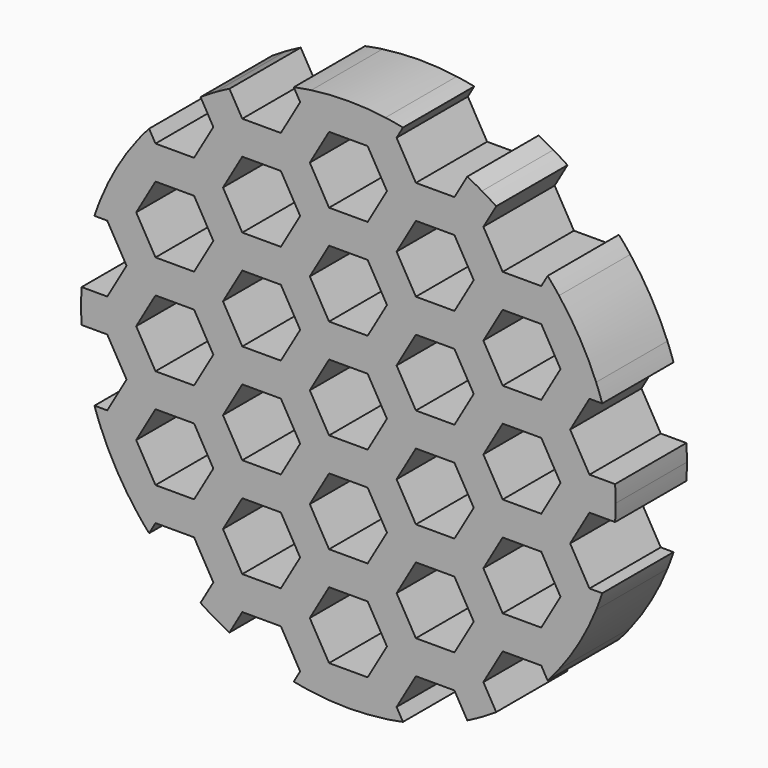
from build123d import *

# Parameters (mm, degrees)
F1_DEPTH = 12.7
F2_DEPTH = 12.701


with BuildPart() as f1:
    # F0 (on Front) → F1 (new body)
    with BuildSketch(Plane.XZ):
        Polygon((4.124446, 7.14375), (8.248892, 0), (16.497784, 0), (20.62223, 7.14375), (16.497784, 14.2875), (8.248892, 14.2875), align=None)
        Polygon((15.122969, 11.90625), (17.872599, 7.14375), (15.122969, 2.38125), (9.623707, 2.38125), (6.874077, 7.14375), (9.623707, 11.90625), align=None, mode=Mode.SUBTRACT)
        Polygon((-4.124446, -21.43125), (-8.248892, -14.2875), (-16.497784, -14.2875), (-20.62223, -21.43125), (-16.497784, -28.575), (-8.248892, -28.575), align=None)
        Polygon((-15.122969, -16.66875), (-9.623707, -16.66875), (-6.874077, -21.43125), (-9.623707, -26.19375), (-15.122969, -26.19375), (-17.872599, -21.43125), align=None, mode=Mode.SUBTRACT)
        Polygon((30.245937, 0), (27.496307, 4.7625), (21.997045, 4.7625), (19.247415, 0), (21.997045, -4.7625), (27.496307, -4.7625), align=None)
        with BuildLine():
            Line((-34.370383, -2.38125), (-38.025513, -2.38125))
            ThreePointArc((-38.025513, -2.38125), (-37.413049, -7.202342), (-36.191867, -11.90625))
            Line((-36.191867, -11.90625), (-34.370383, -11.90625))
            Line((-34.370383, -11.90625), (-31.620753, -7.14375))
            Line((-31.620753, -7.14375), (-34.370383, -2.38125))
        make_face()
        with BuildLine():
            Line((-19.247415, 28.575), (-21.07498, 31.740435))
            ThreePointArc((-21.07498, 31.740435), (-24.943936, 28.79948), (-28.407048, 25.389951))
            Line((-28.407048, 25.389951), (-27.496307, 23.8125))
            Line((-27.496307, 23.8125), (-21.997045, 23.8125))
            Line((-21.997045, 23.8125), (-19.247415, 28.575))
        make_face()
        with BuildLine():
            Line((-4.124446, 35.71875), (4.124446, 35.71875))
            Line((4.124446, 35.71875), (5.286485, 37.73146))
            ThreePointArc((5.286485, 37.73146), (0, 38.1), (-5.286485, 37.73146))
            Line((-5.286485, 37.73146), (-4.124446, 35.71875))
        make_face()
        Polygon((-19.247415, -14.2875), (-21.997045, -9.525), (-27.496307, -9.525), (-30.245937, -14.2875), (-27.496307, -19.05), (-21.997045, -19.05), align=None)
        Polygon((5.499261, -14.2875), (2.749631, -9.525), (-2.749631, -9.525), (-5.499261, -14.2875), (-2.749631, -19.05), (2.749631, -19.05), align=None)
        Polygon((-16.497784, 0), (-8.248892, 0), (-4.124446, 7.14375), (-8.248892, 14.2875), (-16.497784, 14.2875), (-20.62223, 7.14375), align=None)
        Polygon((-15.122969, 11.90625), (-9.623707, 11.90625), (-6.874077, 7.14375), (-9.623707, 2.38125), (-15.122969, 2.38125), (-17.872599, 7.14375), align=None, mode=Mode.SUBTRACT)
        Polygon((-4.124446, 7.14375), (4.124446, 7.14375), (8.248892, 14.2875), (4.124446, 21.43125), (-4.124446, 21.43125), (-8.248892, 14.2875), align=None)
        Polygon((-2.749631, 19.05), (2.749631, 19.05), (5.499261, 14.2875), (2.749631, 9.525), (-2.749631, 9.525), (-5.499261, 14.2875), align=None, mode=Mode.SUBTRACT)
        with BuildLine():
            Line((-16.497784, -28.575), (-20.62223, -21.43125))
            Line((-20.62223, -21.43125), (-28.871122, -21.43125))
            Line((-28.871122, -21.43125), (-30.033161, -23.44396))
            ThreePointArc((-30.033161, -23.44396), (-29.2363, -24.430489), (-28.407048, -25.389951))
            Line((-28.407048, -25.389951), (-27.496307, -23.8125))
            Line((-27.496307, -23.8125), (-21.997045, -23.8125))
            Line((-21.997045, -23.8125), (-19.247415, -28.575))
            Line((-19.247415, -28.575), (-21.07498, -31.740435))
            ThreePointArc((-21.07498, -31.740435), (-20.072303, -32.383833), (-19.05, -32.995568))
            Line((-19.05, -32.995568), (-16.497784, -28.575))
        make_face()
        with BuildLine():
            Line((-32.995568, -14.2875), (-28.871122, -7.14375))
            Line((-28.871122, -7.14375), (-32.995568, 0))
            Line((-32.995568, 0), (-38.1, 0))
            ThreePointArc((-38.1, 0), (-38.081374, -1.191207), (-38.025513, -2.38125))
            Line((-38.025513, -2.38125), (-34.370383, -2.38125))
            Line((-34.370383, -2.38125), (-31.620753, -7.14375))
            Line((-31.620753, -7.14375), (-34.370383, -11.90625))
            Line((-34.370383, -11.90625), (-36.191867, -11.90625))
            ThreePointArc((-36.191867, -11.90625), (-35.775574, -13.104134), (-35.319645, -14.2875))
            Line((-35.319645, -14.2875), (-32.995568, -14.2875))
        make_face()
        with BuildLine():
            Line((-30.033161, -23.44396), (-28.871122, -21.43125))
            Line((-28.871122, -21.43125), (-32.995568, -14.2875))
            Line((-32.995568, -14.2875), (-35.319645, -14.2875))
            ThreePointArc((-35.319645, -14.2875), (-32.995568, -19.05), (-30.033161, -23.44396))
        make_face()
        Polygon((16.497784, -14.2875), (8.248892, -14.2875), (4.124446, -21.43125), (8.248892, -28.575), (16.497784, -28.575), (20.62223, -21.43125), align=None)
        Polygon((9.623707, -16.66875), (15.122969, -16.66875), (17.872599, -21.43125), (15.122969, -26.19375), (9.623707, -26.19375), (6.874077, -21.43125), align=None, mode=Mode.SUBTRACT)
        with BuildLine():
            Line((-34.370383, 11.90625), (-36.191867, 11.90625))
            ThreePointArc((-36.191867, 11.90625), (-37.413049, 7.202342), (-38.025513, 2.38125))
            Line((-38.025513, 2.38125), (-34.370383, 2.38125))
            Line((-34.370383, 2.38125), (-31.620753, 7.14375))
            Line((-31.620753, 7.14375), (-34.370383, 11.90625))
        make_face()
        with BuildLine():
            Line((-6.874077, 35.71875), (-7.784818, 37.296201))
            ThreePointArc((-7.784818, 37.296201), (-12.469114, 36.001822), (-16.950534, 34.121685))
            Line((-16.950534, 34.121685), (-15.122969, 30.95625))
            Line((-15.122969, 30.95625), (-9.623707, 30.95625))
            Line((-9.623707, 30.95625), (-6.874077, 35.71875))
        make_face()
        Polygon((-20.62223, -7.14375), (-16.497784, 0), (-20.62223, 7.14375), (-28.871122, 7.14375), (-32.995568, 0), (-28.871122, -7.14375), align=None)
        Polygon((-27.496307, 4.7625), (-21.997045, 4.7625), (-19.247415, 0), (-21.997045, -4.7625), (-27.496307, -4.7625), (-30.245937, 0), align=None, mode=Mode.SUBTRACT)
        Polygon((5.499261, 14.2875), (2.749631, 19.05), (-2.749631, 19.05), (-5.499261, 14.2875), (-2.749631, 9.525), (2.749631, 9.525), align=None)
        with BuildLine():
            Line((-32.995568, 0), (-28.871122, 7.14375))
            Line((-28.871122, 7.14375), (-32.995568, 14.2875))
            Line((-32.995568, 14.2875), (-35.319645, 14.2875))
            ThreePointArc((-35.319645, 14.2875), (-35.775574, 13.104134), (-36.191867, 11.90625))
            Line((-36.191867, 11.90625), (-34.370383, 11.90625))
            Line((-34.370383, 11.90625), (-31.620753, 7.14375))
            Line((-31.620753, 7.14375), (-34.370383, 2.38125))
            Line((-34.370383, 2.38125), (-38.025513, 2.38125))
            ThreePointArc((-38.025513, 2.38125), (-38.081374, 1.191207), (-38.1, 0))
            Line((-38.1, 0), (-32.995568, 0))
        make_face()
        with BuildLine():
            Line((32.995568, 0), (28.871122, -7.14375))
            Line((28.871122, -7.14375), (32.995568, -14.2875))
            Line((32.995568, -14.2875), (35.319645, -14.2875))
            ThreePointArc((35.319645, -14.2875), (35.775574, -13.104134), (36.191867, -11.90625))
            Line((36.191867, -11.90625), (34.370383, -11.90625))
            Line((34.370383, -11.90625), (31.620753, -7.14375))
            Line((31.620753, -7.14375), (34.370383, -2.38125))
            Line((34.370383, -2.38125), (38.025513, -2.38125))
            ThreePointArc((38.025513, -2.38125), (38.081374, -1.191207), (38.1, 0))
            Line((38.1, 0), (32.995568, 0))
        make_face()
        Polygon((-19.247415, 14.2875), (-21.997045, 19.05), (-27.496307, 19.05), (-30.245937, 14.2875), (-27.496307, 9.525), (-21.997045, 9.525), align=None)
        with BuildLine():
            Line((32.995568, 14.2875), (28.871122, 7.14375))
            Line((28.871122, 7.14375), (32.995568, 0))
            Line((32.995568, 0), (38.1, 0))
            ThreePointArc((38.1, 0), (38.081374, 1.191207), (38.025513, 2.38125))
            Line((38.025513, 2.38125), (34.370383, 2.38125))
            Line((34.370383, 2.38125), (31.620753, 7.14375))
            Line((31.620753, 7.14375), (34.370383, 11.90625))
            Line((34.370383, 11.90625), (36.191867, 11.90625))
            ThreePointArc((36.191867, 11.90625), (35.775574, 13.104134), (35.319645, 14.2875))
            Line((35.319645, 14.2875), (32.995568, 14.2875))
        make_face()
        Polygon((15.122969, 2.38125), (17.872599, 7.14375), (15.122969, 11.90625), (9.623707, 11.90625), (6.874077, 7.14375), (9.623707, 2.38125), align=None)
        with BuildLine():
            Line((-35.319645, 14.2875), (-32.995568, 14.2875))
            Line((-32.995568, 14.2875), (-28.871122, 21.43125))
            Line((-28.871122, 21.43125), (-30.033161, 23.44396))
            ThreePointArc((-30.033161, 23.44396), (-32.995568, 19.05), (-35.319645, 14.2875))
        make_face()
        Polygon((-4.124446, -7.14375), (4.124446, -7.14375), (8.248892, 0), (4.124446, 7.14375), (-4.124446, 7.14375), (-8.248892, 0), align=None)
        Polygon((5.499261, 0), (2.749631, -4.7625), (-2.749631, -4.7625), (-5.499261, 0), (-2.749631, 4.7625), (2.749631, 4.7625), align=None, mode=Mode.SUBTRACT)
        Polygon((-20.62223, -21.43125), (-16.497784, -14.2875), (-20.62223, -7.14375), (-28.871122, -7.14375), (-32.995568, -14.2875), (-28.871122, -21.43125), align=None)
        Polygon((-27.496307, -9.525), (-21.997045, -9.525), (-19.247415, -14.2875), (-21.997045, -19.05), (-27.496307, -19.05), (-30.245937, -14.2875), align=None, mode=Mode.SUBTRACT)
        Polygon((5.499261, 28.575), (2.749631, 33.3375), (-2.749631, 33.3375), (-5.499261, 28.575), (-2.749631, 23.8125), (2.749631, 23.8125), align=None)
        Polygon((-2.749631, -4.7625), (2.749631, -4.7625), (5.499261, 0), (2.749631, 4.7625), (-2.749631, 4.7625), (-5.499261, 0), align=None)
        with BuildLine():
            Line((15.122969, 30.95625), (16.950534, 34.121685))
            ThreePointArc((16.950534, 34.121685), (12.469114, 36.001822), (7.784818, 37.296201))
            Line((7.784818, 37.296201), (6.874077, 35.71875))
            Line((6.874077, 35.71875), (9.623707, 30.95625))
            Line((9.623707, 30.95625), (15.122969, 30.95625))
        make_face()
        with BuildLine():
            Line((32.995568, -14.2875), (28.871122, -21.43125))
            Line((28.871122, -21.43125), (30.033161, -23.44396))
            ThreePointArc((30.033161, -23.44396), (32.995568, -19.05), (35.319645, -14.2875))
            Line((35.319645, -14.2875), (32.995568, -14.2875))
        make_face()
        Polygon((-6.874077, 21.43125), (-9.623707, 26.19375), (-15.122969, 26.19375), (-17.872599, 21.43125), (-15.122969, 16.66875), (-9.623707, 16.66875), align=None)
        Polygon((4.124446, 21.43125), (8.248892, 14.2875), (16.497784, 14.2875), (20.62223, 21.43125), (16.497784, 28.575), (8.248892, 28.575), align=None)
        Polygon((9.623707, 26.19375), (15.122969, 26.19375), (17.872599, 21.43125), (15.122969, 16.66875), (9.623707, 16.66875), (6.874077, 21.43125), align=None, mode=Mode.SUBTRACT)
        with BuildLine():
            ThreePointArc((28.407048, 25.389951), (24.943936, 28.79948), (21.07498, 31.740435))
            Line((21.07498, 31.740435), (19.247415, 28.575))
            Line((19.247415, 28.575), (21.997045, 23.8125))
            Line((21.997045, 23.8125), (27.496307, 23.8125))
            Line((27.496307, 23.8125), (28.407048, 25.389951))
        make_face()
        with BuildLine():
            Line((34.370383, 2.38125), (38.025513, 2.38125))
            ThreePointArc((38.025513, 2.38125), (37.413049, 7.202342), (36.191867, 11.90625))
            Line((36.191867, 11.90625), (34.370383, 11.90625))
            Line((34.370383, 11.90625), (31.620753, 7.14375))
            Line((31.620753, 7.14375), (34.370383, 2.38125))
        make_face()
        Polygon((8.248892, 0), (4.124446, -7.14375), (8.248892, -14.2875), (16.497784, -14.2875), (20.62223, -7.14375), (16.497784, 0), align=None)
        Polygon((9.623707, -2.38125), (15.122969, -2.38125), (17.872599, -7.14375), (15.122969, -11.90625), (9.623707, -11.90625), (6.874077, -7.14375), align=None, mode=Mode.SUBTRACT)
        with BuildLine():
            Line((5.286485, -37.73146), (4.124446, -35.71875))
            Line((4.124446, -35.71875), (-4.124446, -35.71875))
            Line((-4.124446, -35.71875), (-5.286485, -37.73146))
            ThreePointArc((-5.286485, -37.73146), (0, -38.1), (5.286485, -37.73146))
        make_face()
        Polygon((8.248892, -28.575), (4.124446, -21.43125), (-4.124446, -21.43125), (-8.248892, -28.575), (-4.124446, -35.71875), (4.124446, -35.71875), align=None)
        Polygon((-2.749631, -23.8125), (2.749631, -23.8125), (5.499261, -28.575), (2.749631, -33.3375), (-2.749631, -33.3375), (-5.499261, -28.575), align=None, mode=Mode.SUBTRACT)
        Polygon((30.245937, 14.2875), (27.496307, 19.05), (21.997045, 19.05), (19.247415, 14.2875), (21.997045, 9.525), (27.496307, 9.525), align=None)
        Polygon((17.872599, -7.14375), (15.122969, -2.38125), (9.623707, -2.38125), (6.874077, -7.14375), (9.623707, -11.90625), (15.122969, -11.90625), align=None)
        Polygon((-28.871122, 7.14375), (-20.62223, 7.14375), (-16.497784, 14.2875), (-20.62223, 21.43125), (-28.871122, 21.43125), (-32.995568, 14.2875), align=None)
        Polygon((-27.496307, 19.05), (-21.997045, 19.05), (-19.247415, 14.2875), (-21.997045, 9.525), (-27.496307, 9.525), (-30.245937, 14.2875), align=None, mode=Mode.SUBTRACT)
        with BuildLine():
            ThreePointArc((36.191867, -11.90625), (37.413049, -7.202342), (38.025513, -2.38125))
            Line((38.025513, -2.38125), (34.370383, -2.38125))
            Line((34.370383, -2.38125), (31.620753, -7.14375))
            Line((31.620753, -7.14375), (34.370383, -11.90625))
            Line((34.370383, -11.90625), (36.191867, -11.90625))
        make_face()
        Polygon((-4.124446, 21.43125), (4.124446, 21.43125), (8.248892, 28.575), (4.124446, 35.71875), (-4.124446, 35.71875), (-8.248892, 28.575), align=None)
        Polygon((-2.749631, 33.3375), (2.749631, 33.3375), (5.499261, 28.575), (2.749631, 23.8125), (-2.749631, 23.8125), (-5.499261, 28.575), align=None, mode=Mode.SUBTRACT)
        Polygon((-6.874077, 7.14375), (-9.623707, 11.90625), (-15.122969, 11.90625), (-17.872599, 7.14375), (-15.122969, 2.38125), (-9.623707, 2.38125), align=None)
        Polygon((5.499261, -28.575), (2.749631, -23.8125), (-2.749631, -23.8125), (-5.499261, -28.575), (-2.749631, -33.3375), (2.749631, -33.3375), align=None)
        with BuildLine():
            Line((16.497784, -28.575), (8.248892, -28.575))
            Line((8.248892, -28.575), (4.124446, -35.71875))
            Line((4.124446, -35.71875), (5.286485, -37.73146))
            ThreePointArc((5.286485, -37.73146), (6.539274, -37.534623), (7.784818, -37.296201))
            Line((7.784818, -37.296201), (6.874077, -35.71875))
            Line((6.874077, -35.71875), (9.623707, -30.95625))
            Line((9.623707, -30.95625), (15.122969, -30.95625))
            Line((15.122969, -30.95625), (16.950534, -34.121685))
            ThreePointArc((16.950534, -34.121685), (18.009071, -33.575041), (19.05, -32.995568))
            Line((19.05, -32.995568), (16.497784, -28.575))
        make_face()
        Polygon((20.62223, -7.14375), (16.497784, -14.2875), (20.62223, -21.43125), (28.871122, -21.43125), (32.995568, -14.2875), (28.871122, -7.14375), align=None)
        Polygon((21.997045, -9.525), (27.496307, -9.525), (30.245937, -14.2875), (27.496307, -19.05), (21.997045, -19.05), (19.247415, -14.2875), align=None, mode=Mode.SUBTRACT)
        with BuildLine():
            ThreePointArc((21.07498, -31.740435), (24.943936, -28.79948), (28.407048, -25.389951))
            Line((28.407048, -25.389951), (27.496307, -23.8125))
            Line((27.496307, -23.8125), (21.997045, -23.8125))
            Line((21.997045, -23.8125), (19.247415, -28.575))
            Line((19.247415, -28.575), (21.07498, -31.740435))
        make_face()
        Polygon((-16.497784, 14.2875), (-8.248892, 14.2875), (-4.124446, 21.43125), (-8.248892, 28.575), (-16.497784, 28.575), (-20.62223, 21.43125), align=None)
        Polygon((-15.122969, 26.19375), (-9.623707, 26.19375), (-6.874077, 21.43125), (-9.623707, 16.66875), (-15.122969, 16.66875), (-17.872599, 21.43125), align=None, mode=Mode.SUBTRACT)
        with BuildLine():
            Line((-4.124446, -35.71875), (-8.248892, -28.575))
            Line((-8.248892, -28.575), (-16.497784, -28.575))
            Line((-16.497784, -28.575), (-19.05, -32.995568))
            ThreePointArc((-19.05, -32.995568), (-18.009071, -33.575041), (-16.950534, -34.121685))
            Line((-16.950534, -34.121685), (-15.122969, -30.95625))
            Line((-15.122969, -30.95625), (-9.623707, -30.95625))
            Line((-9.623707, -30.95625), (-6.874077, -35.71875))
            Line((-6.874077, -35.71875), (-7.784818, -37.296201))
            ThreePointArc((-7.784818, -37.296201), (-6.539274, -37.534623), (-5.286485, -37.73146))
            Line((-5.286485, -37.73146), (-4.124446, -35.71875))
        make_face()
        Polygon((-6.874077, -21.43125), (-9.623707, -16.66875), (-15.122969, -16.66875), (-17.872599, -21.43125), (-15.122969, -26.19375), (-9.623707, -26.19375), align=None)
        Polygon((-8.248892, -14.2875), (-4.124446, -7.14375), (-8.248892, 0), (-16.497784, 0), (-20.62223, -7.14375), (-16.497784, -14.2875), align=None)
        Polygon((-15.122969, -2.38125), (-9.623707, -2.38125), (-6.874077, -7.14375), (-9.623707, -11.90625), (-15.122969, -11.90625), (-17.872599, -7.14375), align=None, mode=Mode.SUBTRACT)
        Polygon((17.872599, 21.43125), (15.122969, 26.19375), (9.623707, 26.19375), (6.874077, 21.43125), (9.623707, 16.66875), (15.122969, 16.66875), align=None)
        with BuildLine():
            Line((-28.871122, 21.43125), (-20.62223, 21.43125))
            Line((-20.62223, 21.43125), (-16.497784, 28.575))
            Line((-16.497784, 28.575), (-19.05, 32.995568))
            ThreePointArc((-19.05, 32.995568), (-20.072303, 32.383833), (-21.07498, 31.740435))
            Line((-21.07498, 31.740435), (-19.247415, 28.575))
            Line((-19.247415, 28.575), (-21.997045, 23.8125))
            Line((-21.997045, 23.8125), (-27.496307, 23.8125))
            Line((-27.496307, 23.8125), (-28.407048, 25.389951))
            ThreePointArc((-28.407048, 25.389951), (-29.2363, 24.430489), (-30.033161, 23.44396))
            Line((-30.033161, 23.44396), (-28.871122, 21.43125))
        make_face()
        Polygon((-6.874077, -7.14375), (-9.623707, -2.38125), (-15.122969, -2.38125), (-17.872599, -7.14375), (-15.122969, -11.90625), (-9.623707, -11.90625), align=None)
        with BuildLine():
            Line((28.871122, -21.43125), (20.62223, -21.43125))
            Line((20.62223, -21.43125), (16.497784, -28.575))
            Line((16.497784, -28.575), (19.05, -32.995568))
            ThreePointArc((19.05, -32.995568), (20.072303, -32.383833), (21.07498, -31.740435))
            Line((21.07498, -31.740435), (19.247415, -28.575))
            Line((19.247415, -28.575), (21.997045, -23.8125))
            Line((21.997045, -23.8125), (27.496307, -23.8125))
            Line((27.496307, -23.8125), (28.407048, -25.389951))
            ThreePointArc((28.407048, -25.389951), (29.2363, -24.430489), (30.033161, -23.44396))
            Line((30.033161, -23.44396), (28.871122, -21.43125))
        make_face()
        Polygon((8.248892, -14.2875), (4.124446, -7.14375), (-4.124446, -7.14375), (-8.248892, -14.2875), (-4.124446, -21.43125), (4.124446, -21.43125), align=None)
        Polygon((-2.749631, -9.525), (2.749631, -9.525), (5.499261, -14.2875), (2.749631, -19.05), (-2.749631, -19.05), (-5.499261, -14.2875), align=None, mode=Mode.SUBTRACT)
        with BuildLine():
            Line((28.871122, 21.43125), (32.995568, 14.2875))
            Line((32.995568, 14.2875), (35.319645, 14.2875))
            ThreePointArc((35.319645, 14.2875), (32.995568, 19.05), (30.033161, 23.44396))
            Line((30.033161, 23.44396), (28.871122, 21.43125))
        make_face()
        Polygon((30.245937, -14.2875), (27.496307, -9.525), (21.997045, -9.525), (19.247415, -14.2875), (21.997045, -19.05), (27.496307, -19.05), align=None)
        Polygon((16.497784, 14.2875), (20.62223, 7.14375), (28.871122, 7.14375), (32.995568, 14.2875), (28.871122, 21.43125), (20.62223, 21.43125), align=None)
        Polygon((21.997045, 19.05), (27.496307, 19.05), (30.245937, 14.2875), (27.496307, 9.525), (21.997045, 9.525), (19.247415, 14.2875), align=None, mode=Mode.SUBTRACT)
        with BuildLine():
            Line((16.497784, 28.575), (20.62223, 21.43125))
            Line((20.62223, 21.43125), (28.871122, 21.43125))
            Line((28.871122, 21.43125), (30.033161, 23.44396))
            ThreePointArc((30.033161, 23.44396), (29.2363, 24.430489), (28.407048, 25.389951))
            Line((28.407048, 25.389951), (27.496307, 23.8125))
            Line((27.496307, 23.8125), (21.997045, 23.8125))
            Line((21.997045, 23.8125), (19.247415, 28.575))
            Line((19.247415, 28.575), (21.07498, 31.740435))
            ThreePointArc((21.07498, 31.740435), (20.072303, 32.383833), (19.05, 32.995568))
            Line((19.05, 32.995568), (16.497784, 28.575))
        make_face()
        Polygon((-19.247415, 0), (-21.997045, 4.7625), (-27.496307, 4.7625), (-30.245937, 0), (-27.496307, -4.7625), (-21.997045, -4.7625), align=None)
        with BuildLine():
            Line((4.124446, 35.71875), (8.248892, 28.575))
            Line((8.248892, 28.575), (16.497784, 28.575))
            Line((16.497784, 28.575), (19.05, 32.995568))
            ThreePointArc((19.05, 32.995568), (18.009071, 33.575041), (16.950534, 34.121685))
            Line((16.950534, 34.121685), (15.122969, 30.95625))
            Line((15.122969, 30.95625), (9.623707, 30.95625))
            Line((9.623707, 30.95625), (6.874077, 35.71875))
            Line((6.874077, 35.71875), (7.784818, 37.296201))
            ThreePointArc((7.784818, 37.296201), (6.539274, 37.534623), (5.286485, 37.73146))
            Line((5.286485, 37.73146), (4.124446, 35.71875))
        make_face()
        with BuildLine():
            ThreePointArc((7.784818, -37.296201), (12.469114, -36.001822), (16.950534, -34.121685))
            Line((16.950534, -34.121685), (15.122969, -30.95625))
            Line((15.122969, -30.95625), (9.623707, -30.95625))
            Line((9.623707, -30.95625), (6.874077, -35.71875))
            Line((6.874077, -35.71875), (7.784818, -37.296201))
        make_face()
        Polygon((20.62223, 7.14375), (16.497784, 0), (20.62223, -7.14375), (28.871122, -7.14375), (32.995568, 0), (28.871122, 7.14375), align=None)
        Polygon((21.997045, 4.7625), (27.496307, 4.7625), (30.245937, 0), (27.496307, -4.7625), (21.997045, -4.7625), (19.247415, 0), align=None, mode=Mode.SUBTRACT)
        with BuildLine():
            Line((-15.122969, -30.95625), (-16.950534, -34.121685))
            ThreePointArc((-16.950534, -34.121685), (-12.469114, -36.001822), (-7.784818, -37.296201))
            Line((-7.784818, -37.296201), (-6.874077, -35.71875))
            Line((-6.874077, -35.71875), (-9.623707, -30.95625))
            Line((-9.623707, -30.95625), (-15.122969, -30.95625))
        make_face()
        Polygon((17.872599, -21.43125), (15.122969, -16.66875), (9.623707, -16.66875), (6.874077, -21.43125), (9.623707, -26.19375), (15.122969, -26.19375), align=None)
        with BuildLine():
            Line((-27.496307, -23.8125), (-28.407048, -25.389951))
            ThreePointArc((-28.407048, -25.389951), (-24.943936, -28.79948), (-21.07498, -31.740435))
            Line((-21.07498, -31.740435), (-19.247415, -28.575))
            Line((-19.247415, -28.575), (-21.997045, -23.8125))
            Line((-21.997045, -23.8125), (-27.496307, -23.8125))
        make_face()
        with BuildLine():
            Line((-16.497784, 28.575), (-8.248892, 28.575))
            Line((-8.248892, 28.575), (-4.124446, 35.71875))
            Line((-4.124446, 35.71875), (-5.286485, 37.73146))
            ThreePointArc((-5.286485, 37.73146), (-6.539274, 37.534623), (-7.784818, 37.296201))
            Line((-7.784818, 37.296201), (-6.874077, 35.71875))
            Line((-6.874077, 35.71875), (-9.623707, 30.95625))
            Line((-9.623707, 30.95625), (-15.122969, 30.95625))
            Line((-15.122969, 30.95625), (-16.950534, 34.121685))
            ThreePointArc((-16.950534, 34.121685), (-18.009071, 33.575041), (-19.05, 32.995568))
            Line((-19.05, 32.995568), (-16.497784, 28.575))
        make_face()
    extrude(amount=-F1_DEPTH)

    # F0 (on Front) → F2 (cut, through all)
    with BuildSketch(Plane.XZ):
        Polygon((-6.874077, 21.43125), (-9.623707, 26.19375), (-15.122969, 26.19375), (-17.872599, 21.43125), (-15.122969, 16.66875), (-9.623707, 16.66875), align=None)
        with BuildLine():
            Line((-6.874077, 35.71875), (-7.784818, 37.296201))
            ThreePointArc((-7.784818, 37.296201), (-12.469114, 36.001822), (-16.950534, 34.121685))
            Line((-16.950534, 34.121685), (-15.122969, 30.95625))
            Line((-15.122969, 30.95625), (-9.623707, 30.95625))
            Line((-9.623707, 30.95625), (-6.874077, 35.71875))
        make_face()
        Polygon((5.499261, 28.575), (2.749631, 33.3375), (-2.749631, 33.3375), (-5.499261, 28.575), (-2.749631, 23.8125), (2.749631, 23.8125), align=None)
        with BuildLine():
            Line((15.122969, 30.95625), (16.950534, 34.121685))
            ThreePointArc((16.950534, 34.121685), (12.469114, 36.001822), (7.784818, 37.296201))
            Line((7.784818, 37.296201), (6.874077, 35.71875))
            Line((6.874077, 35.71875), (9.623707, 30.95625))
            Line((9.623707, 30.95625), (15.122969, 30.95625))
        make_face()
        Polygon((17.872599, 21.43125), (15.122969, 26.19375), (9.623707, 26.19375), (6.874077, 21.43125), (9.623707, 16.66875), (15.122969, 16.66875), align=None)
        with BuildLine():
            ThreePointArc((28.407048, 25.389951), (24.943936, 28.79948), (21.07498, 31.740435))
            Line((21.07498, 31.740435), (19.247415, 28.575))
            Line((19.247415, 28.575), (21.997045, 23.8125))
            Line((21.997045, 23.8125), (27.496307, 23.8125))
            Line((27.496307, 23.8125), (28.407048, 25.389951))
        make_face()
        Polygon((30.245937, 14.2875), (27.496307, 19.05), (21.997045, 19.05), (19.247415, 14.2875), (21.997045, 9.525), (27.496307, 9.525), align=None)
        Polygon((15.122969, 2.38125), (17.872599, 7.14375), (15.122969, 11.90625), (9.623707, 11.90625), (6.874077, 7.14375), (9.623707, 2.38125), align=None)
        Polygon((30.245937, 0), (27.496307, 4.7625), (21.997045, 4.7625), (19.247415, 0), (21.997045, -4.7625), (27.496307, -4.7625), align=None)
        with BuildLine():
            Line((34.370383, 2.38125), (38.025513, 2.38125))
            ThreePointArc((38.025513, 2.38125), (37.413049, 7.202342), (36.191867, 11.90625))
            Line((36.191867, 11.90625), (34.370383, 11.90625))
            Line((34.370383, 11.90625), (31.620753, 7.14375))
            Line((31.620753, 7.14375), (34.370383, 2.38125))
        make_face()
        Polygon((5.499261, 14.2875), (2.749631, 19.05), (-2.749631, 19.05), (-5.499261, 14.2875), (-2.749631, 9.525), (2.749631, 9.525), align=None)
        with BuildLine():
            Line((-19.247415, 28.575), (-21.07498, 31.740435))
            ThreePointArc((-21.07498, 31.740435), (-24.943936, 28.79948), (-28.407048, 25.389951))
            Line((-28.407048, 25.389951), (-27.496307, 23.8125))
            Line((-27.496307, 23.8125), (-21.997045, 23.8125))
            Line((-21.997045, 23.8125), (-19.247415, 28.575))
        make_face()
        Polygon((-19.247415, 14.2875), (-21.997045, 19.05), (-27.496307, 19.05), (-30.245937, 14.2875), (-27.496307, 9.525), (-21.997045, 9.525), align=None)
        Polygon((-6.874077, 7.14375), (-9.623707, 11.90625), (-15.122969, 11.90625), (-17.872599, 7.14375), (-15.122969, 2.38125), (-9.623707, 2.38125), align=None)
        Polygon((-19.247415, 0), (-21.997045, 4.7625), (-27.496307, 4.7625), (-30.245937, 0), (-27.496307, -4.7625), (-21.997045, -4.7625), align=None)
        with BuildLine():
            Line((-34.370383, 11.90625), (-36.191867, 11.90625))
            ThreePointArc((-36.191867, 11.90625), (-37.413049, 7.202342), (-38.025513, 2.38125))
            Line((-38.025513, 2.38125), (-34.370383, 2.38125))
            Line((-34.370383, 2.38125), (-31.620753, 7.14375))
            Line((-31.620753, 7.14375), (-34.370383, 11.90625))
        make_face()
        Polygon((-2.749631, -4.7625), (2.749631, -4.7625), (5.499261, 0), (2.749631, 4.7625), (-2.749631, 4.7625), (-5.499261, 0), align=None)
        Polygon((17.872599, -7.14375), (15.122969, -2.38125), (9.623707, -2.38125), (6.874077, -7.14375), (9.623707, -11.90625), (15.122969, -11.90625), align=None)
        Polygon((30.245937, -14.2875), (27.496307, -9.525), (21.997045, -9.525), (19.247415, -14.2875), (21.997045, -19.05), (27.496307, -19.05), align=None)
        with BuildLine():
            ThreePointArc((36.191867, -11.90625), (37.413049, -7.202342), (38.025513, -2.38125))
            Line((38.025513, -2.38125), (34.370383, -2.38125))
            Line((34.370383, -2.38125), (31.620753, -7.14375))
            Line((31.620753, -7.14375), (34.370383, -11.90625))
            Line((34.370383, -11.90625), (36.191867, -11.90625))
        make_face()
        Polygon((17.872599, -21.43125), (15.122969, -16.66875), (9.623707, -16.66875), (6.874077, -21.43125), (9.623707, -26.19375), (15.122969, -26.19375), align=None)
        Polygon((5.499261, -14.2875), (2.749631, -9.525), (-2.749631, -9.525), (-5.499261, -14.2875), (-2.749631, -19.05), (2.749631, -19.05), align=None)
        Polygon((-6.874077, -7.14375), (-9.623707, -2.38125), (-15.122969, -2.38125), (-17.872599, -7.14375), (-15.122969, -11.90625), (-9.623707, -11.90625), align=None)
        with BuildLine():
            Line((-34.370383, -2.38125), (-38.025513, -2.38125))
            ThreePointArc((-38.025513, -2.38125), (-37.413049, -7.202342), (-36.191867, -11.90625))
            Line((-36.191867, -11.90625), (-34.370383, -11.90625))
            Line((-34.370383, -11.90625), (-31.620753, -7.14375))
            Line((-31.620753, -7.14375), (-34.370383, -2.38125))
        make_face()
        Polygon((-19.247415, -14.2875), (-21.997045, -9.525), (-27.496307, -9.525), (-30.245937, -14.2875), (-27.496307, -19.05), (-21.997045, -19.05), align=None)
        Polygon((-6.874077, -21.43125), (-9.623707, -16.66875), (-15.122969, -16.66875), (-17.872599, -21.43125), (-15.122969, -26.19375), (-9.623707, -26.19375), align=None)
        with BuildLine():
            Line((-27.496307, -23.8125), (-28.407048, -25.389951))
            ThreePointArc((-28.407048, -25.389951), (-24.943936, -28.79948), (-21.07498, -31.740435))
            Line((-21.07498, -31.740435), (-19.247415, -28.575))
            Line((-19.247415, -28.575), (-21.997045, -23.8125))
            Line((-21.997045, -23.8125), (-27.496307, -23.8125))
        make_face()
        with BuildLine():
            Line((-15.122969, -30.95625), (-16.950534, -34.121685))
            ThreePointArc((-16.950534, -34.121685), (-12.469114, -36.001822), (-7.784818, -37.296201))
            Line((-7.784818, -37.296201), (-6.874077, -35.71875))
            Line((-6.874077, -35.71875), (-9.623707, -30.95625))
            Line((-9.623707, -30.95625), (-15.122969, -30.95625))
        make_face()
        Polygon((5.499261, -28.575), (2.749631, -23.8125), (-2.749631, -23.8125), (-5.499261, -28.575), (-2.749631, -33.3375), (2.749631, -33.3375), align=None)
        with BuildLine():
            ThreePointArc((7.784818, -37.296201), (12.469114, -36.001822), (16.950534, -34.121685))
            Line((16.950534, -34.121685), (15.122969, -30.95625))
            Line((15.122969, -30.95625), (9.623707, -30.95625))
            Line((9.623707, -30.95625), (6.874077, -35.71875))
            Line((6.874077, -35.71875), (7.784818, -37.296201))
        make_face()
        with BuildLine():
            ThreePointArc((21.07498, -31.740435), (24.943936, -28.79948), (28.407048, -25.389951))
            Line((28.407048, -25.389951), (27.496307, -23.8125))
            Line((27.496307, -23.8125), (21.997045, -23.8125))
            Line((21.997045, -23.8125), (19.247415, -28.575))
            Line((19.247415, -28.575), (21.07498, -31.740435))
        make_face()
    extrude(amount=-F2_DEPTH, mode=Mode.SUBTRACT)


solid = f1.part
